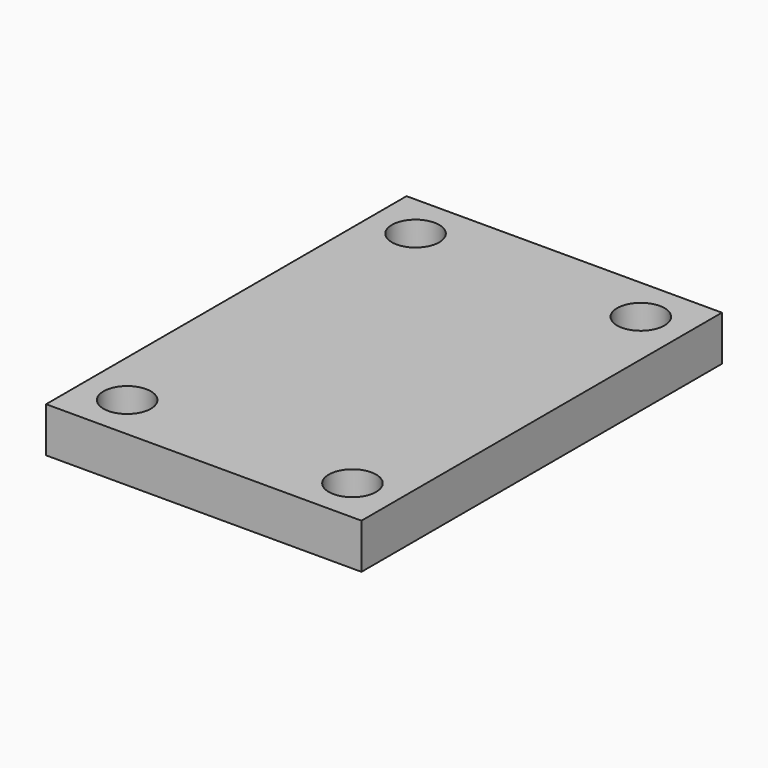
from build123d import *

# Parameters (mm, degrees)
SKETCH_W     = 35
SKETCH_H     = 50
PAD_DEPTH    = 5
SKETCH001_R  = 2.625
POCKET_DEPTH = 5


with BuildPart() as part:
    # Sketch → Pad (new body)
    with BuildSketch(Plane.XY):
        Rectangle(SKETCH_W, SKETCH_H)
    extrude(amount=PAD_DEPTH)

    # Sketch001 (on Face6 of Pad) → Pocket (cut)
    with BuildSketch(Plane.XY.offset(5)):
        with Locations((-12.5, 20)):
            Circle(SKETCH001_R)
        with Locations((-12.5, -20)):
            Circle(SKETCH001_R)
        with Locations((12.5, -20)):
            Circle(SKETCH001_R)
        with Locations((12.5, 20)):
            Circle(SKETCH001_R)
    extrude(amount=-POCKET_DEPTH, mode=Mode.SUBTRACT)


solid = part.part
